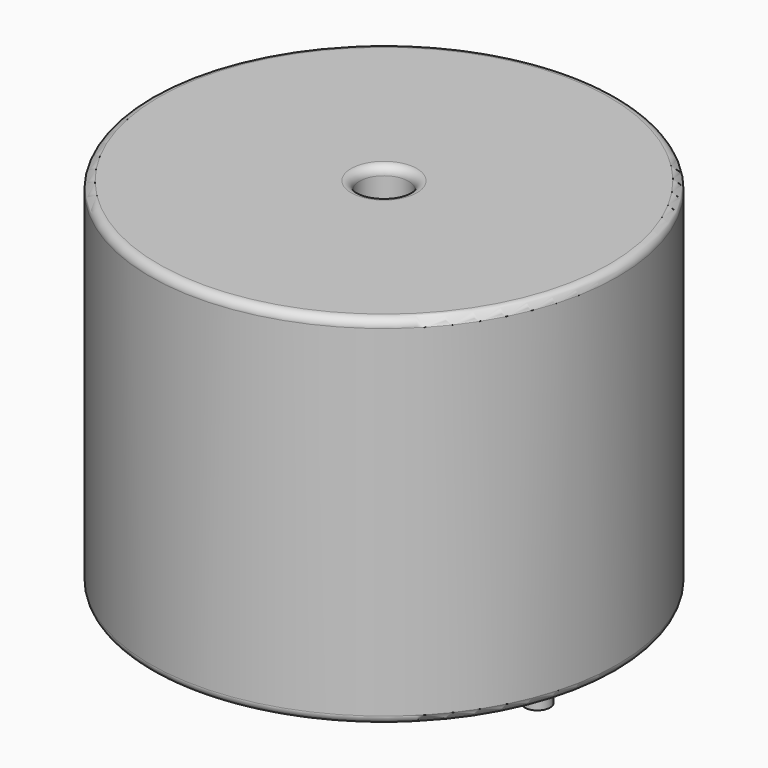
from build123d import *

# Parameters (mm, degrees)
SKETCH001_R       = 0.75
PAD001_DEPTH      = 10.67
PAD001_DEPTH_BACK = 3.5
SKETCH_R          = 13.95
SKETCH_R_2        = 1.46
PAD_DEPTH         = 21.34
FILLET_R          = 0.5


with BuildPart() as pad001:
    # Sketch001 → Pad001 (new body, two sides)
    with BuildSketch(Plane.XY.offset(0.5)) as pad001_sk:
        Circle(SKETCH001_R)
        with Locations((18.29, 0)):
            Circle(SKETCH001_R)
    extrude(amount=PAD001_DEPTH)
    extrude(pad001_sk.sketch, amount=-PAD001_DEPTH_BACK)


with BuildPart() as fillet_body:
    # Sketch → Pad (new body)
    with BuildSketch(Plane.XY.offset(0.1)):
        with Locations((9.145, 0)):
            Circle(SKETCH_R)
        with Locations((9.145, 0)):
            Circle(SKETCH_R_2, mode=Mode.SUBTRACT)
    extrude(amount=PAD_DEPTH)

    # Fillet
    fillet_edges = [fillet_body.edges().sort_by_distance(p)[0] for p in [
        (7.685, 0, 21.44),
        (-4.805, 0, 21.44),
        (-4.805, 0, 0.1),
    ]]
    fillet(fillet_edges, radius=FILLET_R)


solid = Compound([pad001.part, fillet_body.part])
